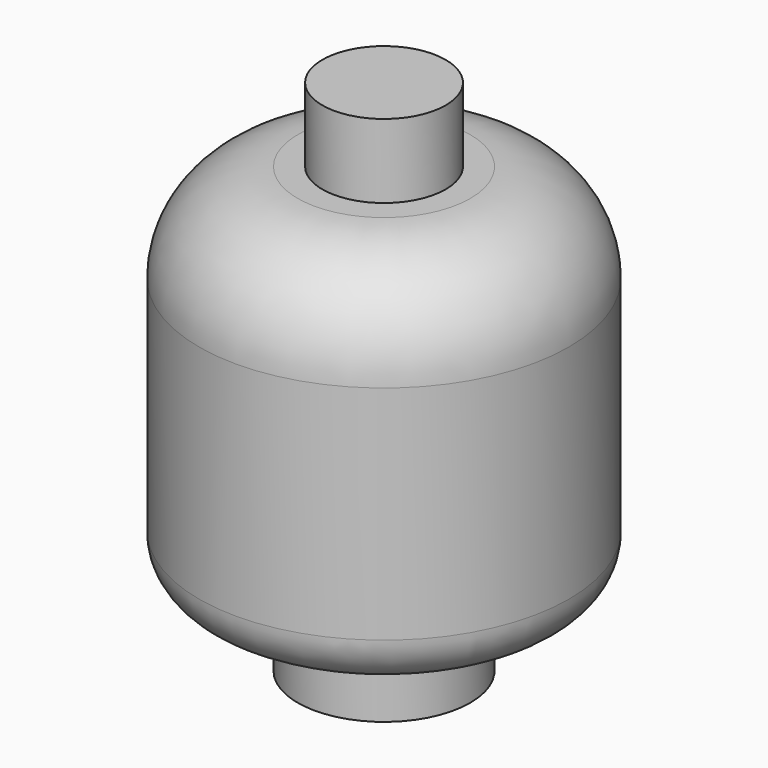
from build123d import *

# Parameters (mm, degrees)
F0_R     = 3.5
F1_DEPTH = 3
F2_R     = 7.5
F2_R_2   = 3.5
F3_DEPTH = 15
F4_R     = 2.5
F5_DEPTH = 3
F6_R     = 2.5
F7_DEPTH = 10
F8_R     = 4
F9_R     = 2


with BuildPart() as f1:
    # F0 (on Top) → F1 (new body)
    with BuildSketch(Plane.XY):
        Circle(F0_R)
    extrude(amount=F1_DEPTH)

    # F2 (on face) → F3 (join)
    with BuildSketch(Plane.XY.offset(3)):
        Circle(F2_R)
        Circle(F2_R_2, mode=Mode.SUBTRACT)
        Circle(F2_R_2)
    extrude(amount=F3_DEPTH)

    # F4 (on face) → F5 (join)
    with BuildSketch(Plane.XY.offset(18)):
        Circle(F4_R)
    extrude(amount=F5_DEPTH)

    # F6 (on face) → F7 (cut)
    with BuildSketch(Plane(origin=(0, 0, 0), x_dir=(1, 0, 0), z_dir=(0, 0, -1))):
        Circle(F6_R)
    extrude(amount=-F7_DEPTH, mode=Mode.SUBTRACT)

    # F8
    f8_edges = [f1.edges().sort_by_distance(p)[0] for p in [
        (-7.5, 0, 18),
    ]]
    fillet(f8_edges, radius=F8_R)

    # F9
    f9_edges = [f1.edges().sort_by_distance(p)[0] for p in [
        (-7.5, 0, 3),
    ]]
    fillet(f9_edges, radius=F9_R)


solid = f1.part
